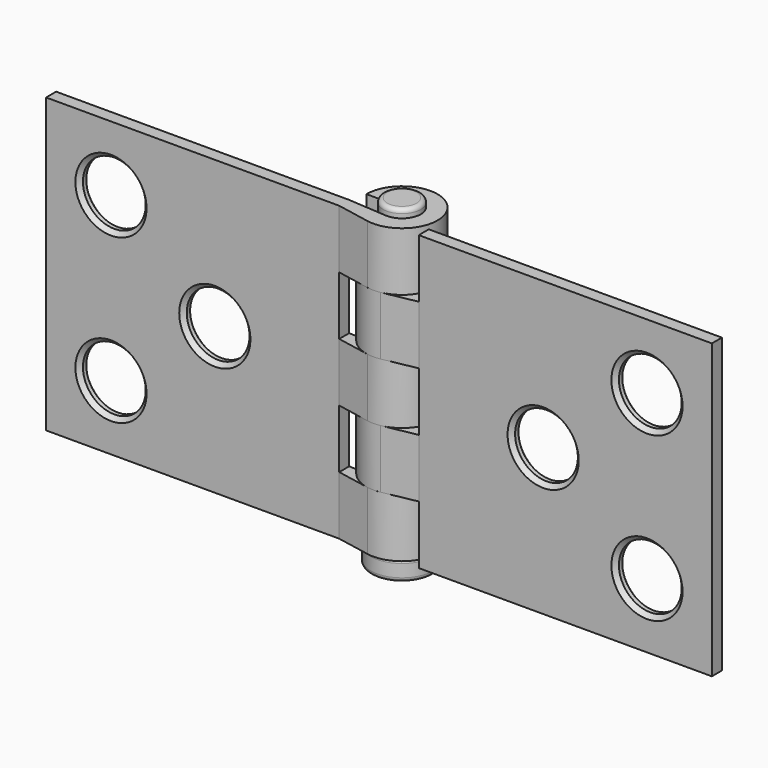
from build123d import *

# Parameters (mm, degrees)
F1_DEPTH  = 70
F2_R      = 7.5
F3_DEPTH  = 25
F4_SIZE   = 1
F7_W      = 33
F7_H      = 14
F7_W_2    = 30.3321704268
F8_DEPTH  = 15
F10_R     = 4.5
F11_DEPTH = 72
F12_R     = 7.5
F13_DEPTH = 5
F14_R     = 1
F15_R     = 1


with BuildPart() as f1:
    # F0 (on Top) → F1 (new body)
    with BuildSketch(Plane.XY):
        with BuildLine():
            Line((-70, 3), (-70, 0))
            Line((-70, 0), (0, 0))
            Line((0, 0), (7.9344753348, -1.5168251489))
            ThreePointArc((7.9344753348, -1.5168251489), (16.0809396896, 12.248800194), (1.0305089505, 6.8319877426))
            Line((1.0305089505, 6.8319877426), (5.0305089505, 6.8319877426))
            ThreePointArc((5.0305089505, 6.8319877426), (12.8236817569, 9.8987470856), (9.2105146695, 2.3433795329))
            Line((9.2105146695, 2.3433795329), (0, 3))
            Line((0, 3), (-70, 3))
        make_face()
    extrude(amount=-F1_DEPTH)

    # F2 (on face) → F3 (cut)
    with BuildSketch(Plane(origin=(0, 3, 0), x_dir=(-1, 0, 0), z_dir=(0, 1, 0))):
        with Locations((29.7052353103, -35)):
            Circle(F2_R)
        with Locations((54.5, -15.5)):
            Circle(F2_R)
        with Locations((54.5, -54.5)):
            Circle(F2_R)
    extrude(amount=-F3_DEPTH, mode=Mode.SUBTRACT)

    # F4
    f4_edges = [f1.edges().sort_by_distance(p)[0] for p in [
        (-47, 0, -15.5),
        (-22.205235, 3, -35),
        (-22.205235, 0, -35),
        (-47, 0, -54.5),
        (-47, 3, -54.5),
        (-47, 3, -15.5),
    ]]
    chamfer(f4_edges, length=F4_SIZE)


with BuildPart() as f6_1:
    # F6: instance of F1
    add(f1.part.mirror(Plane.YZ.offset(40)))


with BuildPart() as f8_tool:
    # F7 (on face) → F8 (new body, symmetric)
    with BuildSketch(Plane(origin=(0, 3, 0), x_dir=(-1, 0, 0), z_dir=(0, 1, 0))):
        with Locations((-16.5, -21)):
            Rectangle(F7_W, F7_H)
        with Locations((-63.5, -7)):
            Rectangle(F7_W, F7_H)
        with Locations((-63.5, -35)):
            Rectangle(F7_W, F7_H)
        with Locations((-15.1660852134, -49)):
            Rectangle(F7_W_2, F7_H)
        with Locations((-63.5, -63)):
            Rectangle(F7_W, F7_H)
    extrude(amount=F8_DEPTH, both=True)


with BuildPart() as f1_1:
    add(f1.part)

    # F8: cut by f8_tool
    add(f8_tool.part, mode=Mode.SUBTRACT)


with BuildPart() as f6_1_1:
    add(f6_1.part)

    # F8: cut by f8_tool
    add(f8_tool.part, mode=Mode.SUBTRACT)


with BuildPart() as f1_2:
    # F9: moved
    add(f1_1.part.moved(Location((61, 0, 0))))


with BuildPart() as f11:
    # F10 (on face) → F11 (new body)
    with BuildSketch(Plane(origin=(0, 0, -70), x_dir=(1, 0, 0), z_dir=(0, 0, -1))):
        with Locations((70.5305089505, -6.8319877426)):
            Circle(F10_R)
    extrude(amount=-F11_DEPTH)

    # F15
    f15_edges = [f11.edges().sort_by_distance(p)[0] for p in [
        (66.030509, 6.831988, 2),
    ]]
    fillet(f15_edges, radius=F15_R)


with BuildPart() as f13:
    # F12 (on face) → F13 (new body)
    with BuildSketch(Plane(origin=(0, 0, -70), x_dir=(1, 0, 0), z_dir=(0, 0, -1))):
        with Locations((70.5305089505, -6.8319877426)):
            Circle(F12_R)
    extrude(amount=F13_DEPTH)

    # F14
    f14_edges = [f13.edges().sort_by_distance(p)[0] for p in [
        (63.030509, 6.831988, -75),
        (78.030509, 6.831988, -72.5),
        (63.030509, 6.831988, -70),
    ]]
    fillet(f14_edges, radius=F14_R)


solid = Compound([f6_1_1.part, f1_2.part, f11.part, f13.part])
